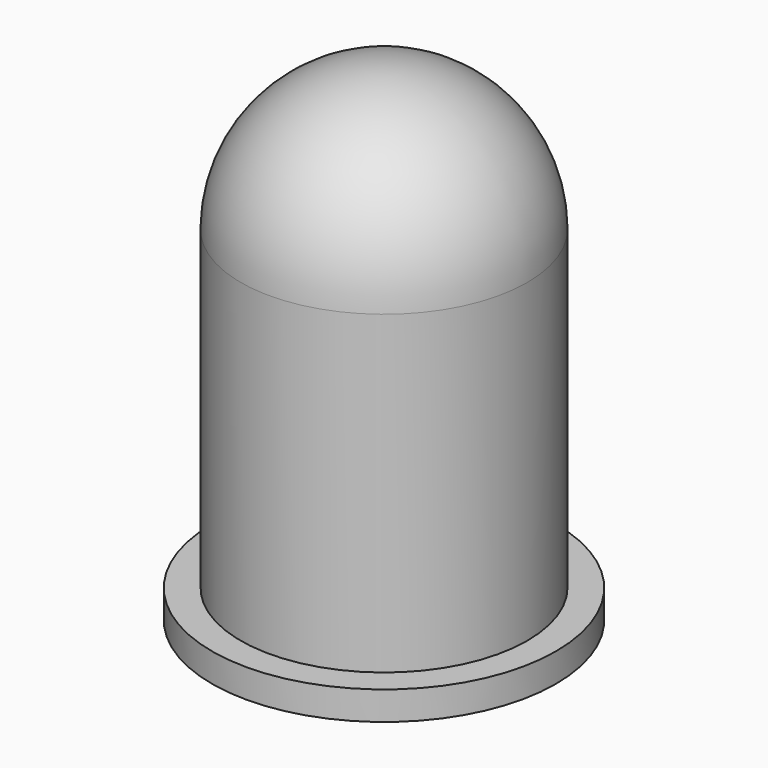
from build123d import *

# Parameters (mm, degrees)
CYLINDER001_R     = 3
CYLINDER001_DEPTH = 0.5
CYLINDER_R        = 2.5
CYLINDER_DEPTH    = 6


with BuildPart() as sphere:
    # Sphere → Sphere (revolve)
    with BuildSketch(Plane(origin=(0, 0, 6), x_dir=(1, 0, 0), z_dir=(0, -1, 0))):
        with BuildLine():
            ThreePointArc((0, -2.5), (2.5, 0), (0, 2.5))
            Line((0, 2.5), (0, -2.5))
        make_face()
    revolve(axis=Axis((0, 0, 6), (0, 0, 1)))


with BuildPart() as cylinder001:
    # Cylinder001 → Cylinder001 (new body)
    with BuildSketch(Plane.XY):
        Circle(CYLINDER001_R)
    extrude(amount=CYLINDER001_DEPTH)


with BuildPart() as led_5mm:
    # Cylinder → Cylinder (new body)
    with BuildSketch(Plane.XY):
        Circle(CYLINDER_R)
    extrude(amount=CYLINDER_DEPTH)

    # Fusion: union Sphere, Cylinder001
    add(sphere.part)
    add(cylinder001.part)


solid = led_5mm.part
